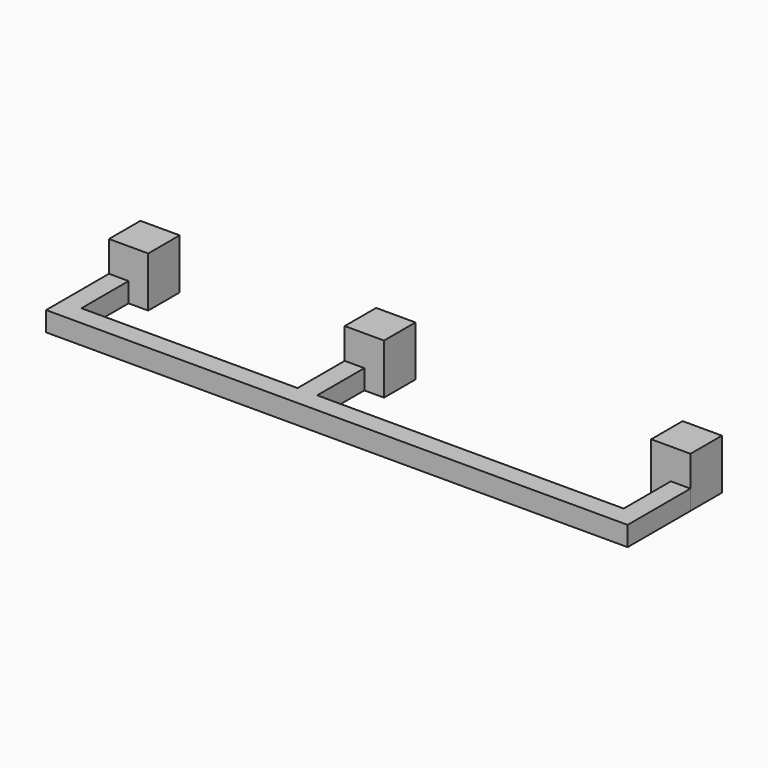
from build123d import *

# Parameters (mm, degrees)
F1_DEPTH = 6.4
F2_DEPTH = 2.5


with BuildPart() as f1:
    # F0 (on Top) → F1 (new body)
    with BuildSketch(Plane.XY):
        Polygon((-2.5, 0), (0, 0), (0, 5), (-5, 5), (-5, 0), align=None)
        Polygon((-74, 5), (-74, 0), (-71.5, 0), (-69, 0), (-69, 5), align=None)
        Polygon((-44, 0), (-41.5, 0), (-39, 0), (-39, 5), (-44, 5), align=None)
    extrude(amount=F1_DEPTH)


with BuildPart() as f2:
    # F0 (on Top) → F2 (new body)
    with BuildSketch(Plane.XY):
        Polygon((0, -10), (0, 0), (-2.5, 0), (-2.5, -7.5), (-41.5, -7.5), (-41.5, 0), (-44, 0), (-44, -7.5), (-71.5, -7.5), (-71.5, 0), (-74, 0), (-74, -10), align=None)
    extrude(amount=F2_DEPTH)


solid = Compound([f1.part, f2.part])
